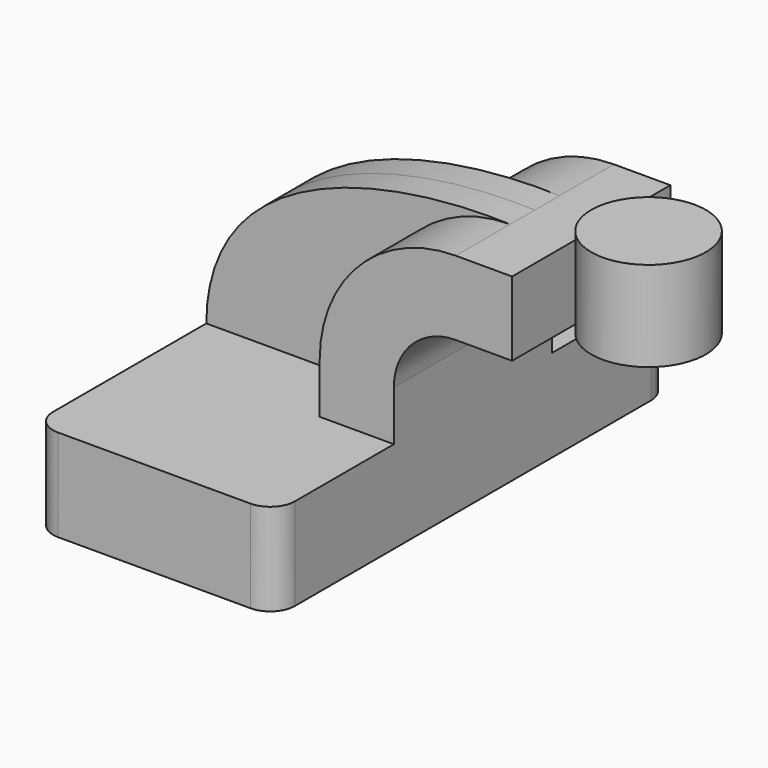
from build123d import *

# Parameters (mm, degrees)
F1_DEPTH = 63.5
F2_DEPTH = 25.4
F3_DEPTH = 7.9375
F0_W     = 14.7170773314
F0_H     = 4.7498
F5_DEPTH = 23.114
F6_R     = 6.35


with BuildPart() as f1:
    # F0 (on Front) → F1 (new body, symmetric)
    with BuildSketch(Plane.XZ):
        Polygon((12.0205828078, 11.8320416201), (-31.0705828078, 11.8320416201), (-31.0705828078, -11.8320416201), (31.0705828078, -11.8320416201), (31.0705828078, 11.8320416201), align=None)
    extrude(amount=F1_DEPTH, both=True)

    # F0 (on Front) → F2 (join, symmetric)
    with BuildSketch(Plane.XZ):
        with BuildLine():
            Line((12.0205828078, 24.6931583799), (12.0205828078, 11.8320416201))
            Line((12.0205828078, 11.8320416201), (31.0705828078, 11.8320416201))
            Line((31.0705828078, 11.8320416201), (31.0705828078, 24.6931583799))
            ThreePointArc((31.0705828078, 24.6931583799), (35.7202626564, 35.9184785312), (46.9455828078, 40.5681583799))
            Line((46.9455828078, 40.5681583799), (61.4348004065, 40.5681583799))
            Line((61.4348004065, 40.5681583799), (61.4348004065, 59.6181583799))
            Line((61.4348004065, 59.6181583799), (46.9455828078, 59.6181583799))
            ThreePointArc((46.9455828078, 59.6181583799), (22.2498784748, 49.3888627128), (12.0205828078, 24.6931583799))
        make_face()
    extrude(amount=F2_DEPTH, both=True)

    # F0 (on Front) → F3 (join, symmetric)
    with BuildSketch(Plane.XZ):
        with BuildLine():
            add(Edge.make_bspline(
                [(-31.0705828078, 11.8320416201), (-30.7864588107, 51.3086781095), (16.0687774749, 60.755262794), (46.9455828078, 59.6181583799)],
                knots=[0, 0, 0, 0, 91.4878956602, 91.4878956602, 91.4878956602, 91.4878956602], degree=3))
            Line((-31.0705828078, 11.8320416201), (12.0205828078, 11.8320416201))
            Line((12.0205828078, 11.8320416201), (12.0205828078, 24.6931583799))
            ThreePointArc((12.0205828078, 24.6931583799), (22.2498784748, 49.3888627128), (46.9455828078, 59.6181583799))
        make_face()
    extrude(amount=F3_DEPTH, both=True)

    # F6
    f6_edges = [f1.edges().sort_by_distance(p)[0] for p in [
        (31.070583, -63.5, 0),
        (31.070583, 63.5, 0),
        (-31.070583, 63.5, 0),
        (-31.070583, -63.5, 0),
    ]]
    fillet(f6_edges, radius=F6_R)


with BuildPart() as f4:
    # F0 (on Front) → F4 (revolve)
    with BuildSketch(Plane.XZ):
        with Locations((68.7933390722, 61.9930583799)):
            Rectangle(F0_W, F0_H)
    revolve(axis=Axis((76.1518777379, 0, 52.4680583799), (0, 0, 1)))


with BuildPart() as f5:
    # F5 (new): a face of the model
    f5_faces = [f4.part.faces().sort_by_distance(p)[0] for p in [
        (76.1518777379, 0, 64.3679583799),
    ]]
    extrude(f5_faces, amount=-F5_DEPTH)


solid = Compound([f1.part, f4.part, f5.part])
